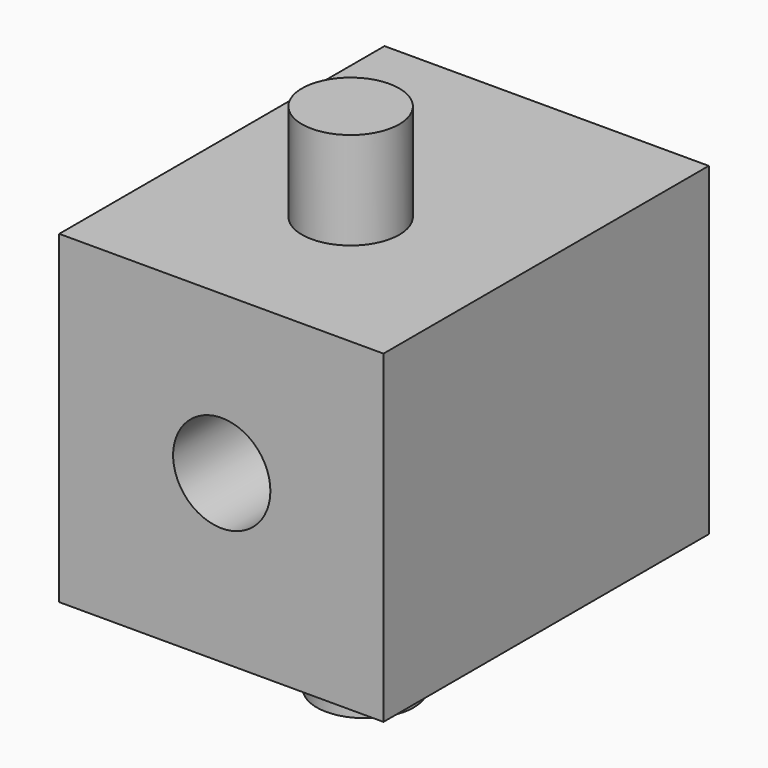
from build123d import *

# Parameters (mm, degrees)
F0_W     = 100
F0_H     = 100
F1_DEPTH = 100
F3_R     = 15
F4_DEPTH = 30
F2_R     = 15
F5_DEPTH = 30
F6_W     = 100
F6_H     = 100
F7_DEPTH = 25.4
F9_D     = 30


with BuildPart() as f1:
    # F0 (on Front) → F1 (new body)
    with BuildSketch(Plane.XZ):
        with Locations((50, 50)):
            Rectangle(F0_W, F0_H)
    extrude(amount=F1_DEPTH)

    # F3 (on face) → F4 (join)
    with BuildSketch(Plane(origin=(0, 0, 0), x_dir=(1, 0, 0), z_dir=(0, 0, -1))):
        with Locations((50.003275, 44.529211)):
            Circle(F3_R)
    extrude(amount=F4_DEPTH)

    # F2 (on face) → F5 (join)
    with BuildSketch(Plane.XY.offset(100)):
        with Locations((49.247686, -49.222711)):
            Circle(F2_R)
    extrude(amount=F5_DEPTH)

    # F6 (on face) → F7 (join)
    with BuildSketch(Plane(origin=(0, 0, 0), x_dir=(-1, 0, 0), z_dir=(0, 1, 0))):
        with Locations((-50, 50)):
            Rectangle(F6_W, F6_H)
    extrude(amount=F7_DEPTH)

    # F9 (through all)
    with Locations(Plane(origin=(0, 25.4, 0), x_dir=(-1, 0, 0), z_dir=(0, 1, 0))):
        with Locations((-50.120577, 51.322706)):
            Hole(F9_D / 2)


solid = f1.part
